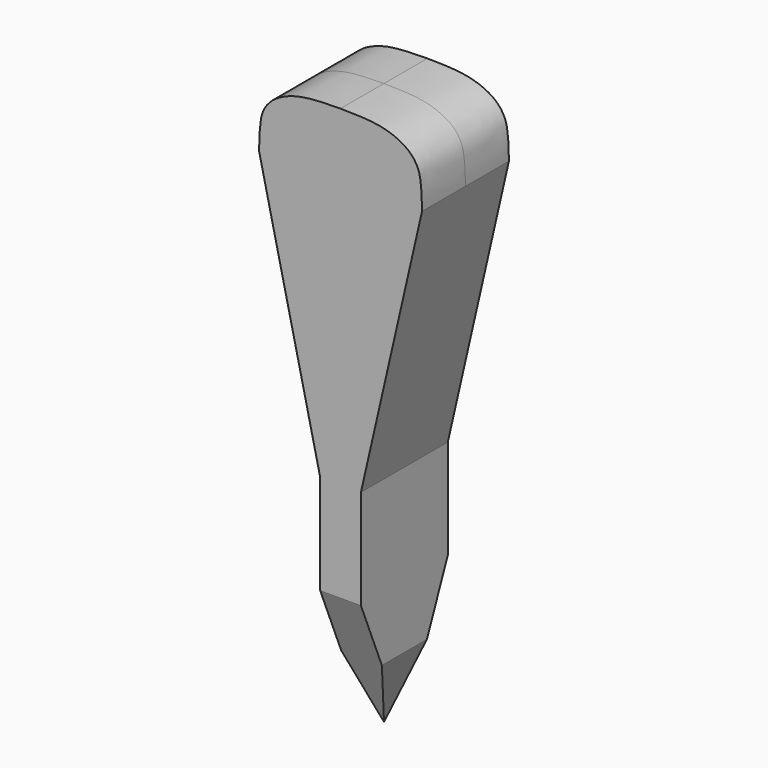
from build123d import *

# Parameters (mm, degrees)
F1_DEPTH = 25.4
F3_DEPTH = 25.4


with BuildPart() as f1:
    # F0 (on Front) → F1 (new body, symmetric)
    with BuildSketch(Plane.XZ):
        with BuildLine():
            Line((-38.1, 232.930787788), (-9.525, 107.95))
            Line((-9.525, 107.95), (-9.525, 31.75))
            Line((-9.525, 31.75), (0, 0))
            Line((0, 0), (9.525, 31.75))
            Line((9.525, 31.75), (9.525, 107.95))
            Line((9.525, 107.95), (38.1, 232.930787788))
            add(Edge.make_bspline(
                [(38.1, 232.930787788), (38.1, 240.550787788), (37.5163115662, 241.1928509419), (37.3595791728, 248.750210884), (32.3169404592, 257.1928484496), (17.7830254248, 262.9110086651), (5.8041372503, 262.6187246427), (0, 262.8126600247)],
                knots=[0, 0, 0, 0, 0.1875465373, 0.3295066438, 0.5124130237, 0.74506917, 1, 1, 1, 1], degree=3))
            add(Edge.make_bspline(
                [(-38.1, 232.930787788), (-38.1, 240.550787788), (-37.5163115662, 241.1928509419), (-37.3595791728, 248.750210884), (-32.3169404592, 257.1928484496), (-17.7830254248, 262.9110086651), (-5.8041372503, 262.6187246427), (0, 262.8126600247)],
                knots=[0, 0, 0, 0, 0.1875465373, 0.3295066438, 0.5124130237, 0.74506917, 1, 1, 1, 1], degree=3))
        make_face()
    extrude(amount=F1_DEPTH, both=True)


with BuildPart() as f3:
    # F2 (on Right) → F3 (new body, symmetric)
    with BuildSketch(Plane.YZ):
        Polygon((29.1604775462, 70.3996203774), (0, 0), (-29.1604775462, 70.3996203774), (-87.4900998982, 70.3996203774), (-87.4900998982, -68.1293379466), (87.4900998982, -68.1293379466), (87.4900998982, 70.3996203774), align=None)
    extrude(amount=F3_DEPTH, both=True)


with BuildPart() as f1_1:
    add(f1.part)

    # F4: cut F3
    add(f3.part, mode=Mode.SUBTRACT)


solid = f1_1.part
